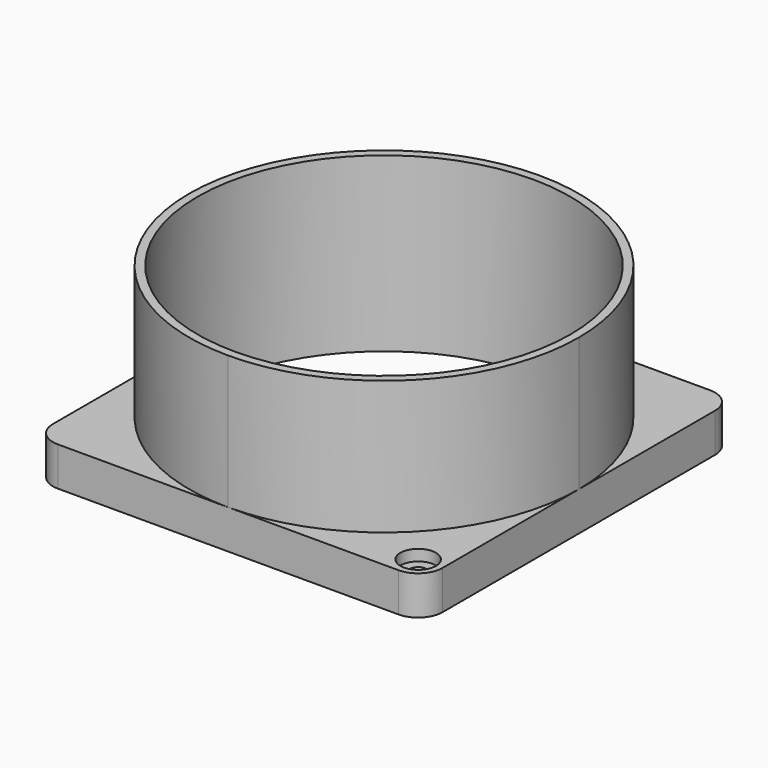
from build123d import *

# Parameters (mm, degrees)
F0_R     = 33.5
F1_DEPTH = 31
F0_R_2   = 3.2
F2_DEPTH = 7
F0_R_3   = 1.5
F3_DEPTH = 5
F4_R     = 4.4


with BuildPart() as f1:
    # F0 (on Top) → F1 (new body)
    with BuildSketch(Plane.XY):
        with BuildLine():
            ThreePointArc((35, 0), (24.748737, 24.748737), (0, 35))
            ThreePointArc((0, 35), (-24.748737, 24.748737), (-35, 0))
            ThreePointArc((-35, 0), (-24.748737, -24.748737), (0, -35))
            ThreePointArc((0, -35), (24.748737, -24.748737), (35, 0))
        make_face()
        Circle(F0_R, mode=Mode.SUBTRACT)
    extrude(amount=F1_DEPTH)

    # F0 (on Top) → F2 (join)
    with BuildSketch(Plane.XY):
        with BuildLine():
            Line((35, 0), (35, 35))
            Line((35, 35), (0, 35))
            ThreePointArc((0, 35), (24.748737, 24.748737), (35, 0))
        make_face()
        with BuildLine():
            ThreePointArc((-35, 0), (-24.748737, 24.748737), (0, 35))
            Line((0, 35), (-35, 35))
            Line((-35, 35), (-35, 0))
        make_face()
        with Locations((-30.7, 30.7)):
            Circle(F0_R_2, mode=Mode.SUBTRACT)
        with BuildLine():
            Line((35, -35), (35, 0))
            ThreePointArc((35, 0), (24.748737, -24.748737), (0, -35))
            Line((0, -35), (35, -35))
        make_face()
        with Locations((30.7, -30.7)):
            Circle(F0_R_2, mode=Mode.SUBTRACT)
        with BuildLine():
            ThreePointArc((0, -35), (-24.748737, -24.748737), (-35, 0))
            Line((-35, 0), (-35, -35))
            Line((-35, -35), (0, -35))
        make_face()
    extrude(amount=F2_DEPTH)

    # F0 (on Top) → F3 (join)
    with BuildSketch(Plane.XY):
        with Locations((-30.7, 30.7)):
            Circle(F0_R_2)
        with Locations((-30.7, 30.7)):
            Circle(F0_R_3, mode=Mode.SUBTRACT)
        with Locations((30.7, -30.7)):
            Circle(F0_R_2)
        with Locations((30.7, -30.7)):
            Circle(F0_R_3, mode=Mode.SUBTRACT)
    extrude(amount=F3_DEPTH)

    # F4
    f4_edges = [f1.edges().sort_by_distance(p)[0] for p in [
        (-35, 35, 3.5),
        (35, -35, 3.5),
        (35, 35, 3.5),
        (-35, -35, 3.5),
    ]]
    fillet(f4_edges, radius=F4_R)


solid = f1.part
